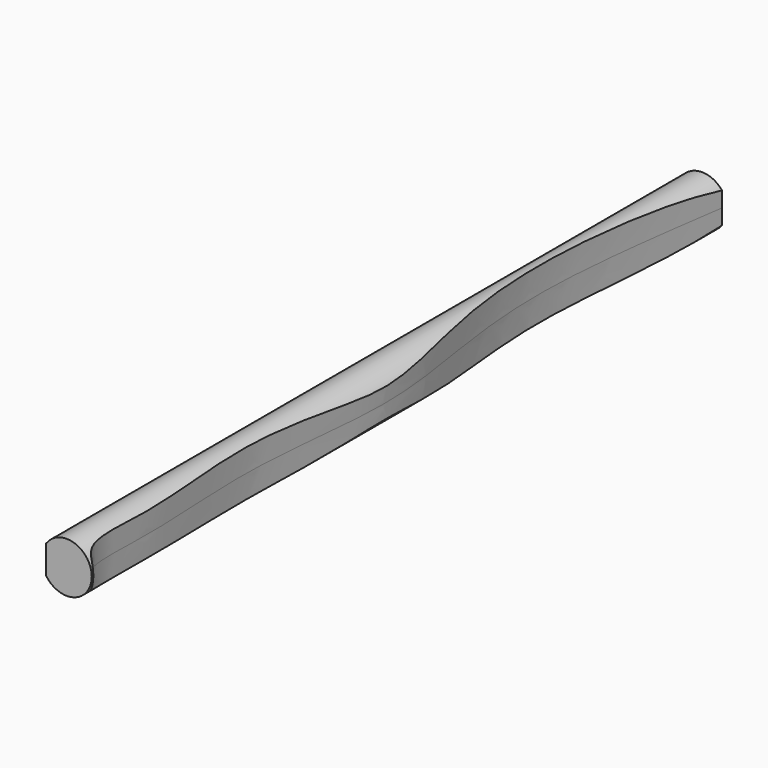
from build123d import *

# Parameters (mm, degrees)
F0_W     = 8.9785000309
F0_H     = 6.8105924875
F0_R     = 2.54
F0_R_2   = 2.286
F2_DEPTH = 75.946
F3_DEPTH = 40.386
F4_DEPTH = 75.6412


with BuildPart() as f2:
    # F0 (on Front) → F2 (new body)
    with BuildSketch(Plane.XZ):
        Rectangle(F0_W, F0_H)
        Circle(F0_R, mode=Mode.SUBTRACT)
        Circle(F0_R)
        Circle(F0_R_2, mode=Mode.SUBTRACT)
        Circle(F0_R_2)
    extrude(amount=-F2_DEPTH)

    # F1 (on Top) → F3 (intersect, symmetric)
    with BuildSketch(Plane.XY):
        with BuildLine():
            Line((-1.8317651893, 0.0435411269), (2.520122789, 0.0164560742))
            add(Edge.make_bspline(
                [(2.520122789, 0.0164560742), (2.5297032871, 0.1408993781), (0.8673470661, 0.3990382019), (1.6886381329, 8.4576127608), (0.28858089, 20.1281801988), (2.5535041881, 33.587432946), (0.6848859482, 43.866423777), (-0.7716195957, 55.5837347125), (1.4089127321, 69.4467137876), (1.8017008072, 72.2880153117)],
                knots=[0, 0, 0, 0, 0.0438324652, 0.1660137682, 0.3315865074, 0.5016801474, 0.6486714124, 0.8143379922, 1, 1, 1, 1], degree=3))
            Line((1.8017008072, 72.2880153117), (-1.8317651893, 72.2908999042))
            add(Edge.make_bspline(
                [(-1.8317651893, 0.0435411269), (-1.9374120748, 0.0432543384), (-0.5692164818, 0.1322432639), (-3.4407410784, 8.9418047471), (-3.2639288918, 19.8384012688), (-1.1502526021, 33.5458924672), (-3.1804189205, 43.5480426506), (-4.1523708176, 55.4287468774), (-2.2411086126, 69.3298423618), (-1.8317651893, 72.2908999042)],
                knots=[0, 0, 0, 0, 0.0054827412, 0.1364998321, 0.3073678852, 0.4836256718, 0.6344334342, 0.8065126549, 1, 1, 1, 1], degree=3))
        make_face()
    extrude(amount=F3_DEPTH, both=True, mode=Mode.INTERSECT)

    # F0 (on Front) → F4 (intersect)
    with BuildSketch(Plane.XZ):
        Circle(F0_R_2)
    extrude(amount=-F4_DEPTH, mode=Mode.INTERSECT)


solid = f2.part
